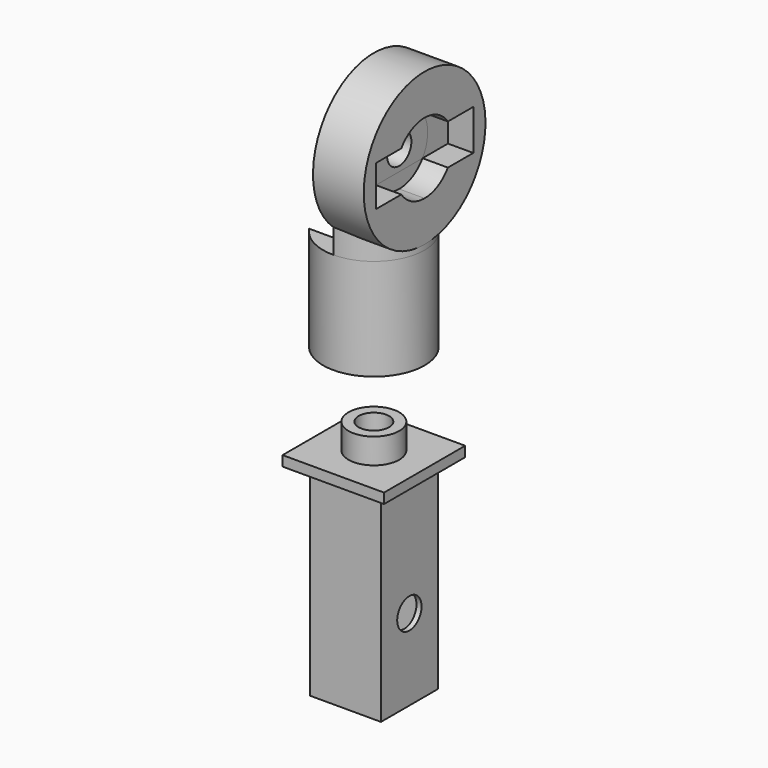
from build123d import *

# Parameters (mm, degrees)
CYLINDER003_R               = 1.5
CYLINDER003_DEPTH           = 0.5
CYLINDER003_PITCH_ANGLE     = 90
CYLINDER002_R               = 1.5
CYLINDER002_DEPTH           = 0.5
CYLINDER002_PITCH_ANGLE     = 90
CYLINDER001_R               = 1.5
CYLINDER001_DEPTH           = 12
BOX003_W                    = 6
BOX003_H                    = 6
BOX003_DEPTH                = 13
CYLINDER_R                  = 2.5
CYLINDER_DEPTH              = 2.5
BOX001_W                    = 7
BOX001_H                    = 7
BOX001_DEPTH                = 20
BOX_W                       = 10
BOX_H                       = 10
BOX_DEPTH                   = 1
BOX007_W                    = 2.5
BOX007_H                    = 12
BOX007_DEPTH                = 4
BOX006_W                    = 1.99
BOX006_H                    = 10
BOX006_DEPTH                = 4
BOX004_W                    = 10
BOX004_H                    = 2.25
BOX004_DEPTH                = 4
BOX005_W                    = 10
BOX005_H                    = 2.25
BOX005_DEPTH                = 4
CYLINDER013_R               = 5
CYLINDER013_DEPTH           = 4
CYLINDER007_R               = 1.5
CYLINDER007_DEPTH           = 5
CYLINDER005_R               = 2.6
CYLINDER005_DEPTH           = 2.5
CYLINDER004_R               = 5
CYLINDER004_DEPTH           = 10
CYLINDER009_W               = 5
CYLINDER009_H               = 3
CYLINDER009_ANGLE           = 180
CYLINDER009_PLACEMENT_ANGLE = -90
CYLINDER012_R               = 3.5
CYLINDER012_DEPTH           = 2.5
CYLINDER012_PITCH_ANGLE     = 90
CYLINDER011_R               = 1.5
CYLINDER011_DEPTH           = 5
CYLINDER011_PITCH_ANGLE     = 90
CYLINDER008_R               = 7.5
CYLINDER008_DEPTH           = 5
CYLINDER008_PITCH_ANGLE     = 90


with BuildPart() as zylinder003:
    # Cylinder003 → Cylinder003 (new body)
    with BuildSketch(Plane.XY):
        Circle(CYLINDER003_R)
    extrude(amount=CYLINDER003_DEPTH)


with BuildPart() as zylinder003_1:
    # Cylinder003 pitch: moved
    add(zylinder003.part.rotate(Axis((0, 0, 0), (0, 1, 0)), CYLINDER003_PITCH_ANGLE))


with BuildPart() as zylinder003_2:
    # Cylinder003 placement: moved
    add(zylinder003_1.part.moved(Location((-3.5, 0, -22))))


with BuildPart() as zylinder002:
    # Cylinder002 → Cylinder002 (new body)
    with BuildSketch(Plane.XY):
        Circle(CYLINDER002_R)
    extrude(amount=CYLINDER002_DEPTH)


with BuildPart() as zylinder002_1:
    # Cylinder002 pitch: moved
    add(zylinder002.part.rotate(Axis((0, 0, 0), (0, 1, 0)), CYLINDER002_PITCH_ANGLE))


with BuildPart() as zylinder002_2:
    # Cylinder002 placement: moved
    add(zylinder002_1.part.moved(Location((3, 0, -22))))


with BuildPart() as zylinder001:
    # Cylinder001 → Cylinder001 (new body)
    with BuildSketch(Plane.XY.offset(-18)):
        Circle(CYLINDER001_R)
    extrude(amount=CYLINDER001_DEPTH)


with BuildPart() as obj1:
    # Box003 → Box003 (new body)
    with BuildSketch(Plane(origin=(-3, -3, -30), x_dir=(1, 0, 0), z_dir=(0, 0, 1))):
        with Locations((3, 3)):
            Rectangle(BOX003_W, BOX003_H)
    extrude(amount=BOX003_DEPTH)


with BuildPart() as zylinder:
    # Cylinder → Cylinder (new body)
    with BuildSketch(Plane.XY.offset(-9)):
        Circle(CYLINDER_R)
    extrude(amount=CYLINDER_DEPTH)


with BuildPart() as obj2:
    # Box001 → Box001 (new body)
    with BuildSketch(Plane(origin=(-3.5, -3.5, -30), x_dir=(1, 0, 0), z_dir=(0, 0, 1))):
        with Locations((3.5, 3.5)):
            Rectangle(BOX001_W, BOX001_H)
    extrude(amount=BOX001_DEPTH)


with BuildPart() as bottom:
    # Box → Box (new body)
    with BuildSketch(Plane(origin=(-5, -5, -10), x_dir=(1, 0, 0), z_dir=(0, 0, 1))):
        with Locations((5, 5)):
            Rectangle(BOX_W, BOX_H)
    extrude(amount=BOX_DEPTH)

    # Fusion001: union Zylinder, obj2
    add(zylinder.part)
    add(obj2.part)

    # Cut: cut obj1
    add(obj1.part, mode=Mode.SUBTRACT)

    # Cut001: cut Zylinder001
    add(zylinder001.part, mode=Mode.SUBTRACT)

    # Cut002: cut Zylinder002
    add(zylinder002_2.part, mode=Mode.SUBTRACT)

    # Cut003: cut Zylinder003
    add(zylinder003_2.part, mode=Mode.SUBTRACT)


with BuildPart() as obj3:
    # Box007 → Box007 (new body)
    with BuildSketch(Plane(origin=(2.5, -6, 16), x_dir=(1, 0, 0), z_dir=(0, 0, 1))):
        with Locations((1.25, 6)):
            Rectangle(BOX007_W, BOX007_H)
    extrude(amount=BOX007_DEPTH)


with BuildPart() as obj4:
    # Box006 → Box006 (new body)
    with BuildSketch(Plane(origin=(3.01, 12, 0), x_dir=(1, 0, 0), z_dir=(0, 0, 1))):
        with Locations((0.995, 5)):
            Rectangle(BOX006_W, BOX006_H)
    extrude(amount=BOX006_DEPTH)


with BuildPart() as obj5:
    # Box004 → Box004 (new body)
    with BuildSketch(Plane(origin=(-5, 19.75, 0), x_dir=(1, 0, 0), z_dir=(0, 0, 1))):
        with Locations((5, 1.125)):
            Rectangle(BOX004_W, BOX004_H)
    extrude(amount=BOX004_DEPTH)


with BuildPart() as fusion002:
    # Box005 → Box005 (new body)
    with BuildSketch(Plane(origin=(-5, 12, 0), x_dir=(1, 0, 0), z_dir=(0, 0, 1))):
        with Locations((5, 1.125)):
            Rectangle(BOX005_W, BOX005_H)
    extrude(amount=BOX005_DEPTH)

    # Fusion: union obj5
    add(obj5.part)

    # Fusion002: union obj4
    add(obj4.part)


with BuildPart() as cut011:
    # Cylinder013 → Cylinder013 (new body)
    with BuildSketch(Plane(origin=(0, 17, 0), x_dir=(1, 0, 0), z_dir=(0, 0, 1))):
        Circle(CYLINDER013_R)
    extrude(amount=CYLINDER013_DEPTH)

    # Cut011: cut Fusion002
    add(fusion002.part, mode=Mode.SUBTRACT)


with BuildPart() as cut011_1:
    # Cut011 placement: moved
    add(cut011.part.moved(Location((0, -17, 6))))


with BuildPart() as zylinder007:
    # Cylinder007 → Cylinder007 (new body)
    with BuildSketch(Plane.XY.offset(2.5)):
        Circle(CYLINDER007_R)
    extrude(amount=CYLINDER007_DEPTH)


with BuildPart() as zylinder005:
    # Cylinder005 → Cylinder005 (new body)
    with BuildSketch(Plane.XY):
        Circle(CYLINDER005_R)
    extrude(amount=CYLINDER005_DEPTH)


with BuildPart() as cut012:
    # Cylinder004 → Cylinder004 (new body)
    with BuildSketch(Plane.XY):
        Circle(CYLINDER004_R)
    extrude(amount=CYLINDER004_DEPTH)

    # Cut004: cut Zylinder005
    add(zylinder005.part, mode=Mode.SUBTRACT)

    # Cut009: cut Zylinder007
    add(zylinder007.part, mode=Mode.SUBTRACT)

    # Cut012: cut Cut011
    add(cut011_1.part, mode=Mode.SUBTRACT)


with BuildPart() as zylinder009:
    # Cylinder009 → Cylinder009 (revolve)
    with BuildSketch(Plane.XZ):
        with Locations((2.5, 1.5)):
            Rectangle(CYLINDER009_W, CYLINDER009_H)
    revolve(axis=Axis((0, 0, 0), (0, 0, 1)), revolution_arc=CYLINDER009_ANGLE)


with BuildPart() as zylinder009_1:
    # Cylinder009 placement: moved
    add(zylinder009.part.moved(Location((0, 0, 10))).rotate(Axis((0, 0, 10), (0, 0, 1)), CYLINDER009_PLACEMENT_ANGLE))


with BuildPart() as zylinder012:
    # Cylinder012 → Cylinder012 (new body)
    with BuildSketch(Plane.XY):
        Circle(CYLINDER012_R)
    extrude(amount=CYLINDER012_DEPTH)


with BuildPart() as zylinder012_1:
    # Cylinder012 pitch: moved
    add(zylinder012.part.rotate(Axis((0, 0, 0), (0, 1, 0)), CYLINDER012_PITCH_ANGLE))


with BuildPart() as zylinder012_2:
    # Cylinder012 placement: moved
    add(zylinder012_1.part.moved(Location((2.5, 0, 18))))


with BuildPart() as zylinder011:
    # Cylinder011 → Cylinder011 (new body)
    with BuildSketch(Plane.XY):
        Circle(CYLINDER011_R)
    extrude(amount=CYLINDER011_DEPTH)


with BuildPart() as zylinder011_1:
    # Cylinder011 pitch: moved
    add(zylinder011.part.rotate(Axis((0, 0, 0), (0, 1, 0)), CYLINDER011_PITCH_ANGLE))


with BuildPart() as zylinder011_2:
    # Cylinder011 placement: moved
    add(zylinder011_1.part.moved(Location((0, 0, 18))))


with BuildPart() as top:
    # Cylinder008 → Cylinder008 (new body)
    with BuildSketch(Plane.XY):
        Circle(CYLINDER008_R)
    extrude(amount=CYLINDER008_DEPTH)


with BuildPart() as top_1:
    # Cylinder008 pitch: moved
    add(top.part.rotate(Axis((0, 0, 0), (0, 1, 0)), CYLINDER008_PITCH_ANGLE))


with BuildPart() as top_2:
    # Cylinder008 placement: moved
    add(top_1.part.moved(Location((0, 0, 18))))

    # Cut008: cut Zylinder011
    add(zylinder011_2.part, mode=Mode.SUBTRACT)

    # Cut010: cut Zylinder012
    add(zylinder012_2.part, mode=Mode.SUBTRACT)

    # Fusion003: union Zylinder009
    add(zylinder009_1.part)

    # Fusion004: union Cut012
    add(cut012.part)

    # Cut013: cut obj3
    add(obj3.part, mode=Mode.SUBTRACT)


solid = Compound([bottom.part, top_2.part])
